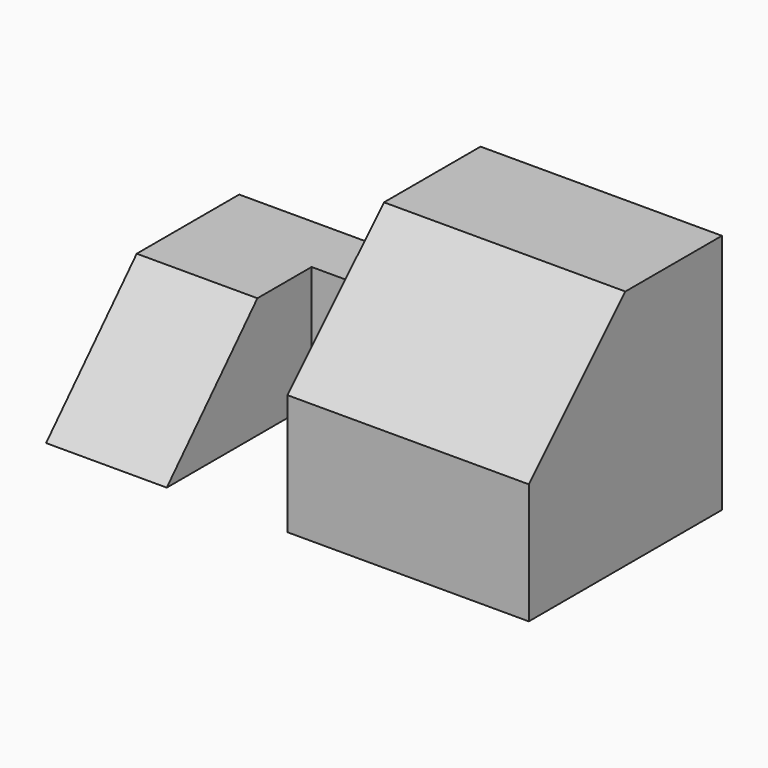
from build123d import *

# Parameters (mm, degrees)
F1_DEPTH = 25.4
F2_W     = 6.35
F2_H     = 12.7
F3_DEPTH = 25.4
F5_DEPTH = 12.7


with BuildPart() as f1:
    # F0 (on Right) → F1 (new body)
    with BuildSketch(Plane.YZ):
        Polygon((-25.4, 0), (0, 0), (0, 25.4), (-12.7, 25.4), (-25.4, 12.7), align=None)
    extrude(amount=F1_DEPTH)

    # F2 (on face) → F3 (join)
    with BuildSketch(Plane(origin=(0, 0, 0), x_dir=(0, -1, 0), z_dir=(-1, 0, 0))):
        with Locations((3.175, 6.35)):
            Rectangle(F2_W, F2_H)
    extrude(amount=F3_DEPTH)

    # F4 (on face) → F5 (join)
    with BuildSketch(Plane(origin=(-25.4, 0, 0), x_dir=(0, -1, 0), z_dir=(-1, 0, 0))):
        Polygon((6.35, 0), (25.4, 0), (13.477535, 12.7), (6.35, 12.7), align=None)
    extrude(amount=-F5_DEPTH)


solid = f1.part
